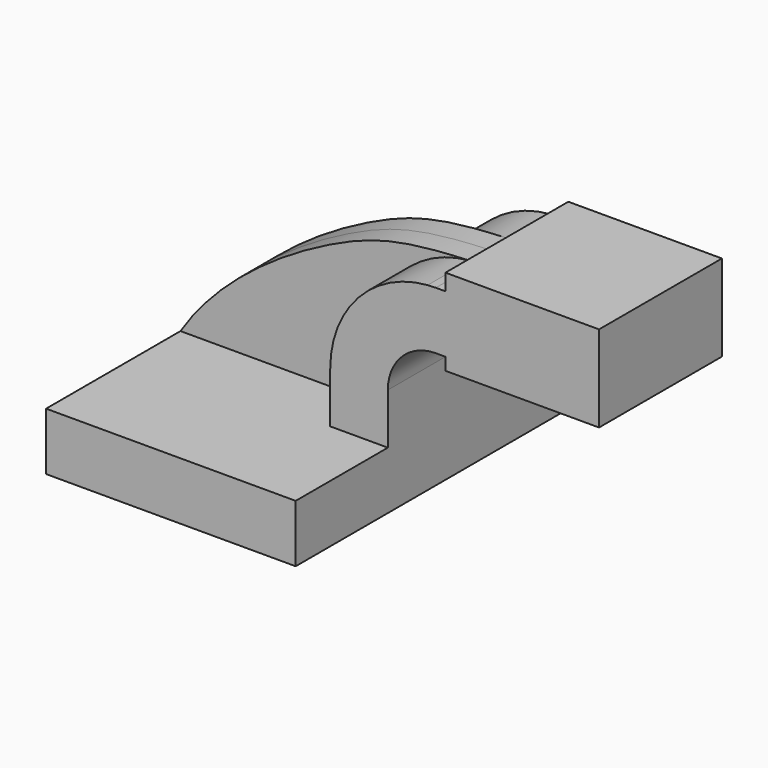
from build123d import *

# Parameters (mm, degrees)
F1_DEPTH = 63.5
F2_DEPTH = 25.4
F3_DEPTH = 7.9375


with BuildPart() as f1:
    # F0 (on Front) → F1 (new body, symmetric)
    with BuildSketch(Plane.XZ):
        Polygon((-41.275, 9.525), (-41.275, -9.525), (41.275, -9.525), (41.275, 9.525), (22.225, 9.525), align=None)
    extrude(amount=F1_DEPTH, both=True)

    # F0 (on Front) → F2 (join, symmetric)
    with BuildSketch(Plane.XZ):
        with BuildLine():
            Line((22.225, 9.525), (41.275, 9.525))
            Line((41.275, 9.525), (41.275, 26.3144))
            ThreePointArc((41.275, 26.3144), (45.9246798487, 37.5397201513), (57.15, 42.1894))
            Line((57.15, 42.1894), (60.325, 42.1894))
            Line((60.325, 42.1894), (60.325, 61.2394))
            Line((60.325, 61.2394), (57.15, 61.2394))
            add(Edge.make_bspline(
                [(54.4521083612, 61.1350405126), (55.3312639193, 61.1719383272), (56.2302041727, 61.2066578487), (57.15, 61.2394)],
                knots=[0.9818500248, 0.9818500248, 0.9818500248, 0.9818500248, 1, 1, 1, 1], degree=3))
            ThreePointArc((54.4521083612, 61.1350405126), (31.5181888029, 50.0370870265), (22.225, 26.3144))
            Line((22.225, 26.3144), (22.225, 9.525))
        make_face()
        Polygon((60.325, 66.675), (60.325, 61.2394), (60.325, 42.1894), (60.325, 38.1), (111.125, 38.1), (111.125, 66.675), align=None)
    extrude(amount=F2_DEPTH, both=True)

    # F0 (on Front) → F3 (join, symmetric)
    with BuildSketch(Plane.XZ):
        with BuildLine():
            add(Edge.make_bspline(
                [(-41.275, 9.525), (-28.348620981, 29.8197139055), (11.5454759395, 55.3722683758), (33.0508519988, 60.2368381598), (54.4521083612, 61.1350405126)],
                knots=[0, 0, 0, 0, 0.540025743, 0.9818500248, 0.9818500248, 0.9818500248, 0.9818500248], degree=3))
            Line((-41.275, 9.525), (22.225, 9.525))
            Line((22.225, 9.525), (22.225, 26.3144))
            ThreePointArc((22.225, 26.3144), (31.5181888029, 50.0370870265), (54.4521083612, 61.1350405126))
        make_face()
    extrude(amount=F3_DEPTH, both=True)


solid = f1.part
